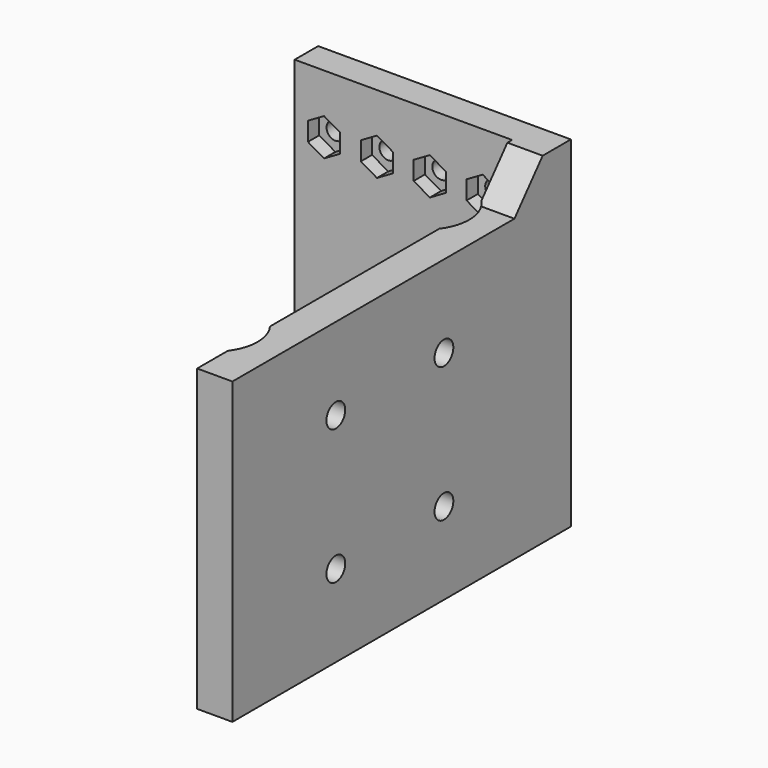
from build123d import *

# Parameters (mm, degrees)
F1_DEPTH  = 58
F2_R      = 2
F3_DEPTH  = 6.001
F4_R      = 7.5
F5_DEPTH  = 58.001
F7_DEPTH  = 43.001
F8_R      = 1.5
F9_DEPTH  = 2.4
F10_DEPTH = 5.001002


with BuildPart() as f1:
    # F0 (on Top) → F1 (new body)
    with BuildSketch(Plane.XY):
        Polygon((0, 67), (0, 0), (6, 0), (6, 72.000002), (-37, 72.000002), (-37, 67), align=None)
    extrude(amount=F1_DEPTH)

    # F2 (on face) → F3 (cut, through all)
    with BuildSketch(Plane(origin=(0, 0, 0), x_dir=(0, -1, 0), z_dir=(-1, 0, 0))):
        with Locations((-45, 37)):
            Circle(F2_R)
        with Locations((-45, 14)):
            Circle(F2_R)
        with Locations((-22, 14)):
            Circle(F2_R)
        with Locations((-22, 37)):
            Circle(F2_R)
    extrude(amount=-F3_DEPTH, mode=Mode.SUBTRACT)

    # F4 (on face) → F5 (cut, through all)
    with BuildSketch(Plane.XY):
        with Locations((-6, 11)):
            Circle(F4_R)
        with Locations((-6, 56)):
            Circle(F4_R)
    extrude(amount=F5_DEPTH, mode=Mode.SUBTRACT)

    # F6 (on face) → F7 (cut, through all)
    with BuildSketch(Plane.YZ.offset(6)):
        Polygon((60.000002, 51), (66.000002, 58), (0, 58), (0, 51), align=None)
    extrude(amount=-F7_DEPTH, mode=Mode.SUBTRACT)

    # F8 (on face) → F9 (cut)
    with BuildSketch(Plane.XZ.offset(-67)):
        Polygon((-7.75, 49.587713), (-7.75, 46.412287), (-5, 44.824574), (-2.25, 46.412287), (-2.25, 49.587713), (-5, 51.175426), align=None)
        with Locations((-5, 48)):
            Circle(F8_R, mode=Mode.SUBTRACT)
        Polygon((-2.25, 16.412287), (-2.25, 19.587713), (-5, 21.175426), (-7.75, 19.587713), (-7.75, 16.412287), (-5, 14.824574), align=None)
        with Locations((-5, 18)):
            Circle(F8_R, mode=Mode.SUBTRACT)
        Polygon((-11.25, 46.412287), (-11.25, 49.587713), (-14, 51.175426), (-16.75, 49.587713), (-16.75, 46.412287), (-14, 44.824574), align=None)
        with Locations((-14, 48)):
            Circle(F8_R, mode=Mode.SUBTRACT)
        Polygon((-11.25, 16.412287), (-11.25, 19.587713), (-14, 21.175426), (-16.75, 19.587713), (-16.75, 16.412287), (-14, 14.824574), align=None)
        with Locations((-14, 18)):
            Circle(F8_R, mode=Mode.SUBTRACT)
        Polygon((-20.25, 46.412287), (-20.25, 49.587713), (-23, 51.175426), (-25.75, 49.587713), (-25.75, 46.412287), (-23, 44.824574), align=None)
        with Locations((-23, 48)):
            Circle(F8_R, mode=Mode.SUBTRACT)
        Polygon((-20.25, 16.412287), (-20.25, 19.587713), (-23, 21.175426), (-25.75, 19.587713), (-25.75, 16.412287), (-23, 14.824574), align=None)
        with Locations((-23, 18)):
            Circle(F8_R, mode=Mode.SUBTRACT)
        Polygon((-29.25, 46.412287), (-29.25, 49.587713), (-32, 51.175426), (-34.75, 49.587713), (-34.75, 46.412287), (-32, 44.824574), align=None)
        with Locations((-32, 48)):
            Circle(F8_R, mode=Mode.SUBTRACT)
        Polygon((-29.25, 16.412287), (-29.25, 19.587713), (-32, 21.175426), (-34.75, 19.587713), (-34.75, 16.412287), (-32, 14.824574), align=None)
        with Locations((-32, 18)):
            Circle(F8_R, mode=Mode.SUBTRACT)
    extrude(amount=-F9_DEPTH, mode=Mode.SUBTRACT)

    # F8 (on face) → F10 (cut, through all)
    with BuildSketch(Plane.XZ.offset(-67)):
        with Locations((-32, 48)):
            Circle(F8_R)
        with Locations((-23, 48)):
            Circle(F8_R)
        with Locations((-14, 48)):
            Circle(F8_R)
        with Locations((-5, 48)):
            Circle(F8_R)
        with Locations((-32, 18)):
            Circle(F8_R)
        with Locations((-23, 18)):
            Circle(F8_R)
        with Locations((-14, 18)):
            Circle(F8_R)
        with Locations((-5, 18)):
            Circle(F8_R)
    extrude(amount=-F10_DEPTH, mode=Mode.SUBTRACT)


solid = f1.part
